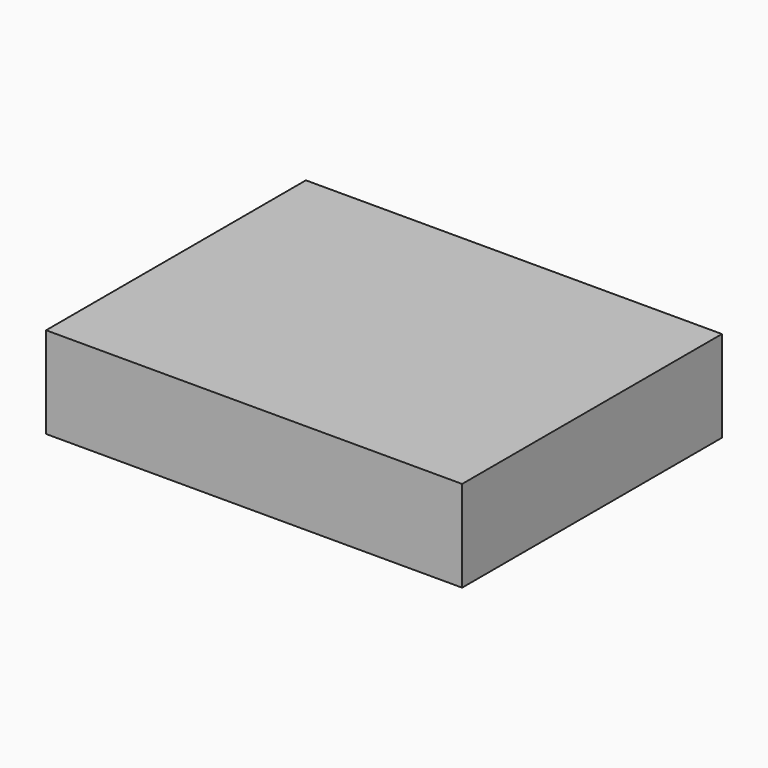
from build123d import *

# Parameters (mm, degrees)
F0_W = 41
F0_H = 32


with BuildPart() as f2:
    # F2: sweep along a path in F1
    with BuildLine(Plane.XZ) as f2_path:
        Line((0, 0), (0, 9))
    # F0 (on Top) → F2 (sweep)
    with BuildSketch(Plane.XY):
        Rectangle(F0_W, F0_H)
    sweep(path=f2_path.line)


solid = f2.part
